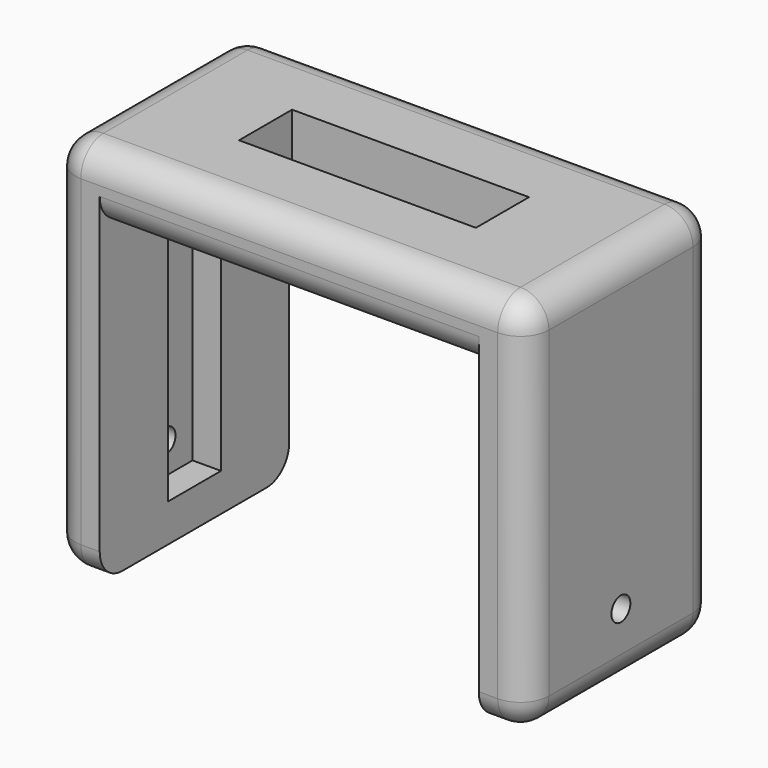
from build123d import *

# Parameters (mm, degrees)
F0_W      = 50
F0_H      = 40
F1_DEPTH  = 25
F2_W      = 40
F2_H      = 33
F3_DEPTH  = 25.001
F4_W      = 7
F4_H      = 25
F5_DEPTH  = 3
F6_R      = 1.25
F7_DEPTH  = 50.001
F8_W      = 25
F8_H      = 7
F9_DEPTH  = 5
F10_R     = 1.25
F11_DEPTH = 2
F12_R     = 3


with BuildPart() as f1:
    # F0 (on Front) → F1 (new body)
    with BuildSketch(Plane.XZ):
        with Locations((4.001731, 5.162706)):
            Rectangle(F0_W, F0_H)
    extrude(amount=F1_DEPTH)

    # F2 (on face) → F3 (cut, through all)
    with BuildSketch(Plane.XZ.offset(25)):
        with Locations((4.001731, 1.662706)):
            Rectangle(F2_W, F2_H)
    extrude(amount=-F3_DEPTH, mode=Mode.SUBTRACT)

    # F4 (on face) → F5 (cut)
    with BuildSketch(Plane.YZ.offset(-15.998269)):
        with Locations((-12.5, 1.662706)):
            Rectangle(F4_W, F4_H)
    extrude(amount=-F5_DEPTH, mode=Mode.SUBTRACT)

    # F6 (on face) → F7 (cut, through all)
    with BuildSketch(Plane(origin=(-20.998269, 0, 0), x_dir=(0, -1, 0), z_dir=(-1, 0, 0))):
        with Locations((12.5, -7.587294)):
            Circle(F6_R)
    extrude(amount=-F7_DEPTH, mode=Mode.SUBTRACT)

    # F8 (on face) → F9 (cut)
    with BuildSketch(Plane.XY.offset(25.162706)):
        with Locations((4.001731, -12.5)):
            Rectangle(F8_W, F8_H)
    extrude(amount=-F9_DEPTH, mode=Mode.SUBTRACT)

    # F10 (on face) → F11 (cut)
    with BuildSketch(Plane.XY.offset(20.162706)):
        with Locations((13.251731, -12.5)):
            Circle(F10_R)
    extrude(amount=-F11_DEPTH, mode=Mode.SUBTRACT)

    # F12
    f12_edges = [f1.edges().sort_by_distance(p)[0] for p in [
        (29.001731, -12.5, 25.162706),
        (-20.998269, -12.5, 25.162706),
        (4.001731, 0, 25.162706),
        (4.001731, -25, 25.162706),
        (29.001731, -25, 5.162706),
        (29.001731, 0, 5.162706),
        (-20.998269, -25, 5.162706),
        (-20.998269, 0, 5.162706),
        (-20.998269, -12.5, -14.837294),
        (29.001731, -12.5, -14.837294),
        (26.501731, -25, -14.837294),
        (-18.498269, -25, -14.837294),
        (26.501731, 0, -14.837294),
        (-18.498269, 0, -14.837294),
        (4.001731, -25, 18.162706),
        (4.001731, 0, 18.162706),
    ]]
    fillet(f12_edges, radius=F12_R)


solid = f1.part
